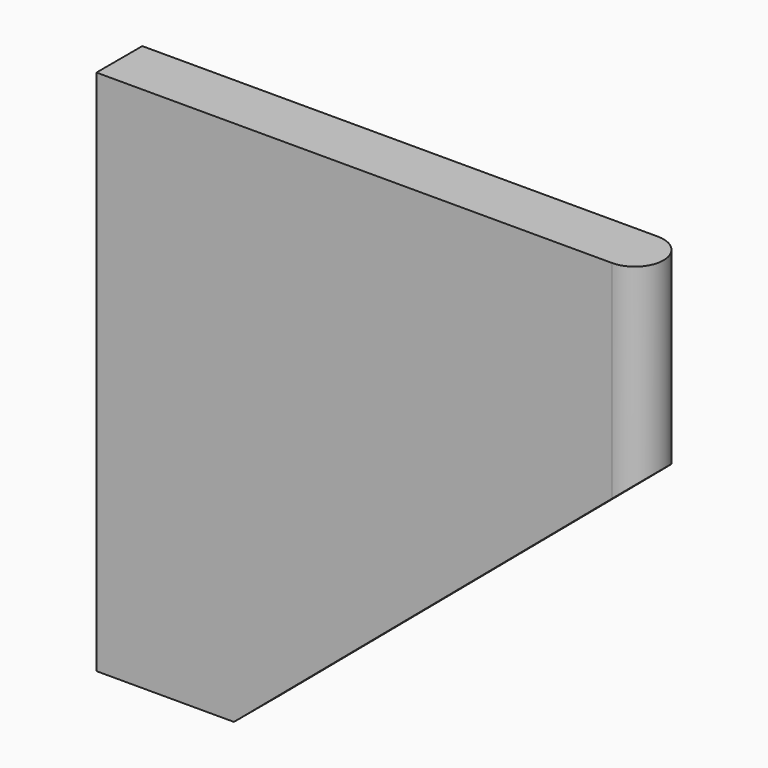
from build123d import *

# Parameters (mm, degrees)
F1_DEPTH = 230
F3_DEPTH = 25.001


with BuildPart() as f1:
    # F0 (on Top) → F1 (new body)
    with BuildSketch(Plane.XY):
        with BuildLine():
            Line((0, 25), (0, 0))
            Line((0, 0), (225, 0))
            ThreePointArc((225, 0), (237.5, 12.5), (225, 25))
            Line((225, 25), (0, 25))
        make_face()
    extrude(amount=F1_DEPTH)

    # F2 (on face) → F3 (cut, through all)
    with BuildSketch(Plane.XZ):
        Polygon((237.5, 0), (237.5, 150), (225, 139.43662), (225, 0), align=None)
        Polygon((225, 0), (225, 139.43662), (60, 0), align=None)
    extrude(amount=-F3_DEPTH, mode=Mode.SUBTRACT)


solid = f1.part
